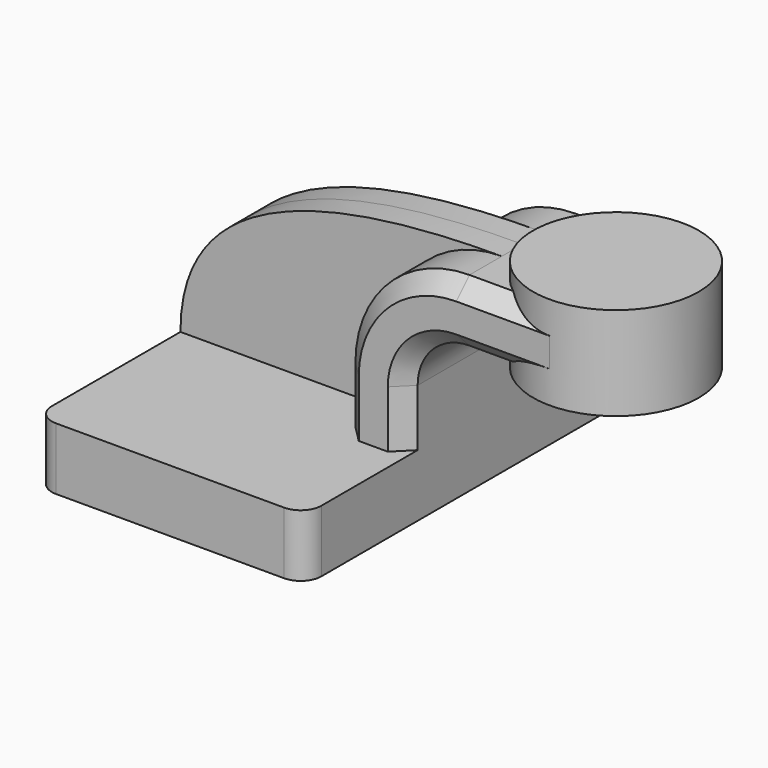
from build123d import *

# Parameters (mm, degrees)
F1_DEPTH = 63.5
F0_W     = 25.4132496778
F0_H     = 19.05
F2_DEPTH = 25.4
F3_DEPTH = 7.9375
F5_R     = 6.35
F6_SIZE  = 5.08


with BuildPart() as f1:
    # F0 (on Front) → F1 (new body, symmetric)
    with BuildSketch(Plane.XZ):
        Polygon((41.275, -9.525), (41.275, 9.525), (22.225, 9.525), (-41.275, 9.525), (-41.275, -9.525), align=None)
    extrude(amount=F1_DEPTH, both=True)

    # F0 (on Front) → F2 (join, symmetric)
    with BuildSketch(Plane.XZ):
        with BuildLine():
            Line((22.225, 9.525), (41.275, 9.525))
            Line((41.275, 9.525), (41.275, 27.0002))
            ThreePointArc((41.275, 27.0002), (45.9246798487, 38.2255201513), (57.15, 42.8752))
            Line((57.15, 42.8752), (60.325, 42.8752))
            Line((60.325, 42.8752), (60.325, 61.9252))
            Line((60.325, 61.9252), (57.15, 61.9252))
            ThreePointArc((57.15, 61.9252), (32.4542956671, 51.6959043329), (22.225, 27.0002))
            Line((22.225, 27.0002), (22.225, 9.525))
        make_face()
        with Locations((73.0316248389, 52.4002)):
            Rectangle(F0_W, F0_H)
    extrude(amount=F2_DEPTH, both=True)

    # F0 (on Front) → F3 (join, symmetric)
    with BuildSketch(Plane.XZ):
        with BuildLine():
            Line((-41.275, 9.525), (22.225, 9.525))
            Line((22.225, 9.525), (22.225, 27.0002))
            ThreePointArc((22.225, 27.0002), (32.4542956671, 51.6959043329), (57.15, 61.9252))
            add(Edge.make_bspline(
                [(-41.275, 9.525), (-41.275, 49.0254089236), (0, 61.9252), (57.15, 61.9252)],
                knots=[0, 0, 0, 0, 111.5045361635, 111.5045361635, 111.5045361635, 111.5045361635], degree=3))
        make_face()
    extrude(amount=F3_DEPTH, both=True)

    # F0 (on Front) → F4 (revolve)
    with BuildSketch(Plane.XZ):
        Polygon((85.7382496778, 61.9252), (85.7382496778, 42.8752), (85.7382496778, 38.1), (111.125, 38.1), (111.125, 66.675), (85.7382496778, 66.675), align=None)
    revolve(axis=Axis((85.7382496778, 0, 52.3875), (0, 0, 1)))

    # F5
    f5_edges = [f1.edges().sort_by_distance(p)[0] for p in [
        (-41.275, -63.5, 0),
        (41.275, -63.5, 0),
        (41.275, 63.5, 0),
        (-41.275, 63.5, 0),
    ]]
    fillet(f5_edges, radius=F5_R)

    # F6
    f6_edges = [f1.edges().sort_by_distance(p)[0] for p in [
        (32.454296, 25.4, 51.695904),
        (32.454296, -25.4, 51.695904),
        (45.92468, -25.4, 38.22552),
        (45.92468, 25.4, 38.22552),
    ]]
    chamfer(f6_edges, length=F6_SIZE)


solid = f1.part
